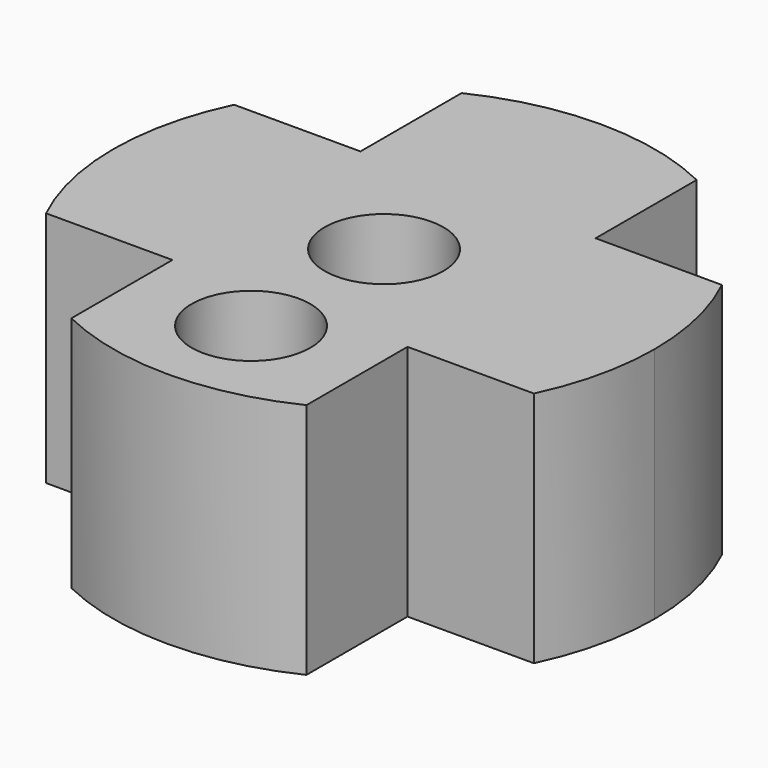
from build123d import *

# Parameters (mm, degrees)
F0_R     = 2.5
F1_DEPTH = 10


with BuildPart() as f1:
    # F0 (on Top) → F1 (new body)
    with BuildSketch(Plane.XY):
        with BuildLine():
            ThreePointArc((10.269494, -4.949495), (11.11378, -2.538481), (11.4, 0))
            ThreePointArc((11.4, 0), (11.11378, 2.538481), (10.269494, 4.949495))
            Line((10.269494, 4.949495), (4.95, 4.949495))
            Line((4.95, 4.949495), (4.95, 10.26925))
            ThreePointArc((4.95, 10.26925), (0, 11.4), (-4.95, 10.26925))
            Line((-4.95, 10.26925), (-4.95, 4.949495))
            Line((-4.95, 4.949495), (-10.269494, 4.949495))
            ThreePointArc((-10.269494, 4.949495), (-11.4, 0), (-10.269494, -4.949495))
            Line((-10.269494, -4.949495), (-4.95, -4.949495))
            Line((-4.95, -4.949495), (-4.95, -10.26925))
            ThreePointArc((-4.95, -10.26925), (0, -11.4), (4.95, -10.26925))
            Line((4.95, -10.26925), (4.95, -4.949495))
            Line((4.95, -4.949495), (10.269494, -4.949495))
        make_face()
        with Locations((0, -7)):
            Circle(F0_R, mode=Mode.SUBTRACT)
        Circle(F0_R, mode=Mode.SUBTRACT)
    extrude(amount=F1_DEPTH)


solid = f1.part
